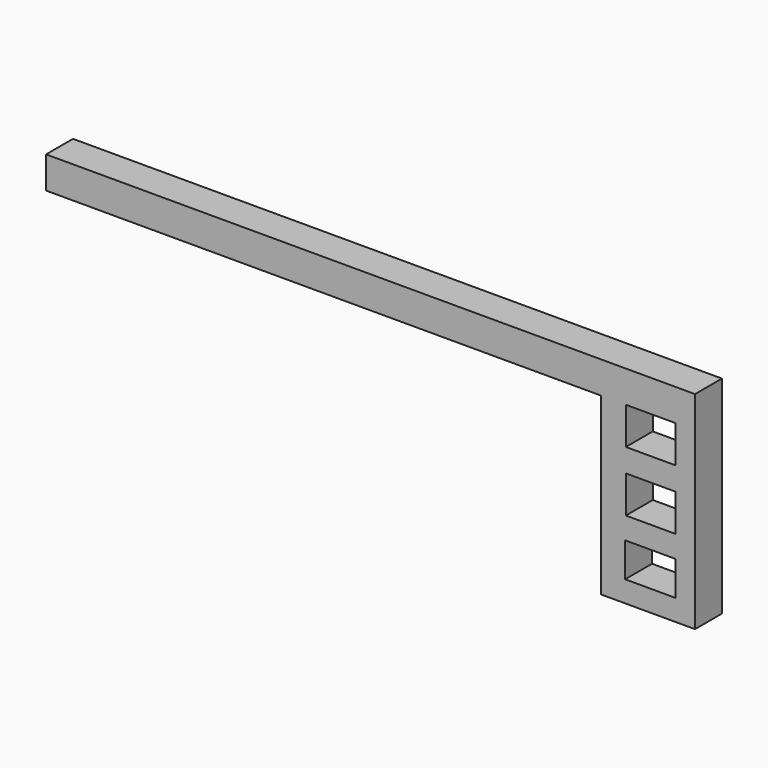
from build123d import *

# Parameters (mm, degrees)
F1_W     = 9.495668
F1_H     = 6.474912
F1_W_2   = 9.400923
F1_H_2   = 7.010855
F0_DEPTH = 6.35


with BuildPart() as f0:
    # F1 (on Front) → F0 (new body)
    with BuildSketch(Plane.XZ):
        Polygon((61.962634, 61.060265), (-60.458682, 61.060265), (-60.458682, 55.044476), (44.216055, 55.044476), (44.216055, 22.015698), (61.962634, 22.015698), align=None)
        with Locations((53.525379, 29.250968)):
            Rectangle(F1_W, F1_H, mode=Mode.SUBTRACT)
        with Locations((53.615397, 40.149778)):
            Rectangle(F1_W_2, F1_H_2, mode=Mode.SUBTRACT)
        with Locations((53.615397, 51.539048)):
            Rectangle(F1_W_2, F1_H_2, mode=Mode.SUBTRACT)
    extrude(amount=F0_DEPTH)


solid = f0.part
